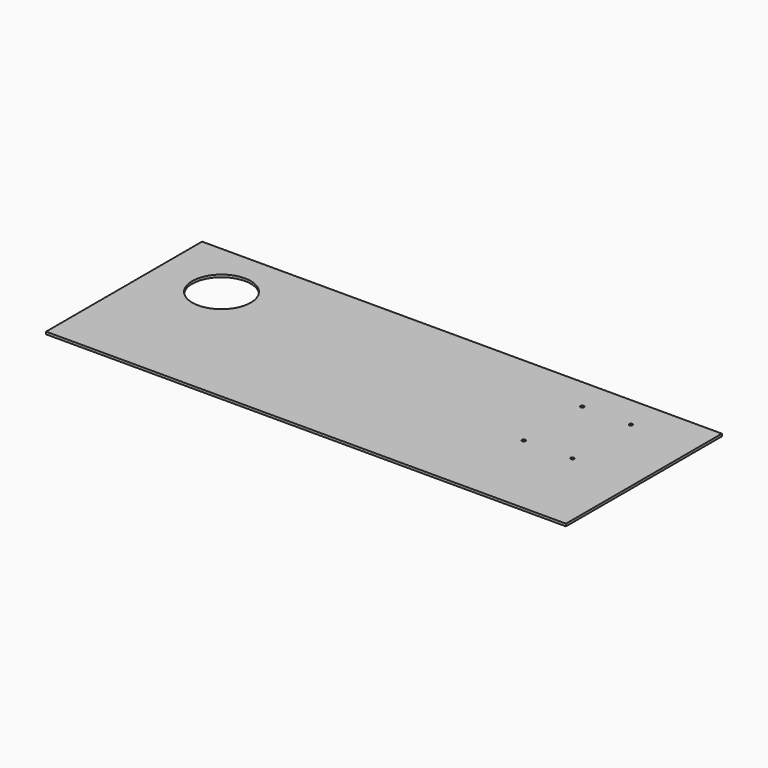
from build123d import *

# Parameters (mm, degrees)
F0_W     = 812.8
F0_H     = 304.8
F0_R     = 2.6924
F0_R_2   = 45.7835
F1_DEPTH = 3.81


with BuildPart() as f1:
    # F0 (on Top) → F1 (new body)
    with BuildSketch(Plane.XY):
        with Locations((314.836944, 203.638772)):
            Rectangle(F0_W, F0_H)
        with Locations((543.436944, 190.938772)):
            Circle(F0_R, mode=Mode.SUBTRACT)
        with Locations((619.636944, 190.938772)):
            Circle(F0_R, mode=Mode.SUBTRACT)
        with Locations((10.036944, 267.138772)):
            Circle(F0_R_2, mode=Mode.SUBTRACT)
        with Locations((543.436944, 305.238772)):
            Circle(F0_R, mode=Mode.SUBTRACT)
        with Locations((619.636944, 305.238772)):
            Circle(F0_R, mode=Mode.SUBTRACT)
    extrude(amount=F1_DEPTH)


solid = f1.part
